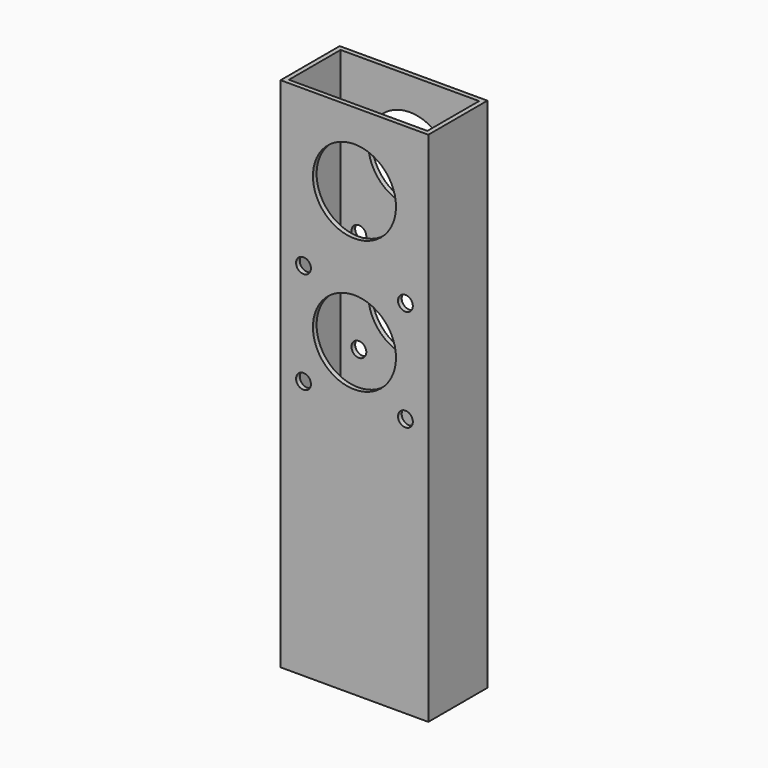
from build123d import *

# Parameters (mm, degrees)
F0_W     = 50.8
F0_H     = 25.4
F0_W_2   = 47.625
F0_H_2   = 22.225
F1_DEPTH = 177.8
F2_R     = 14.2875
F2_R_2   = 2.5527
F3_DEPTH = 25.4


with BuildPart() as f1:
    # F0 (on Top) → F1 (new body)
    with BuildSketch(Plane.XY):
        Rectangle(F0_W, F0_H)
        Rectangle(F0_W_2, F0_H_2, mode=Mode.SUBTRACT)
    extrude(amount=F1_DEPTH)

    # F2 (on face) → F3 (cut)
    with BuildSketch(Plane.XZ.offset(12.7)):
        with Locations((0, 152.4)):
            Circle(F2_R)
        with Locations((-17.526, 124.206)):
            Circle(F2_R_2)
        with Locations((17.526, 124.206)):
            Circle(F2_R_2)
        with Locations((17.526, 89.154)):
            Circle(F2_R_2)
        with Locations((-17.526, 89.154)):
            Circle(F2_R_2)
        with Locations((0, 106.68)):
            Circle(F2_R)
    extrude(amount=-F3_DEPTH, mode=Mode.SUBTRACT)


solid = f1.part
